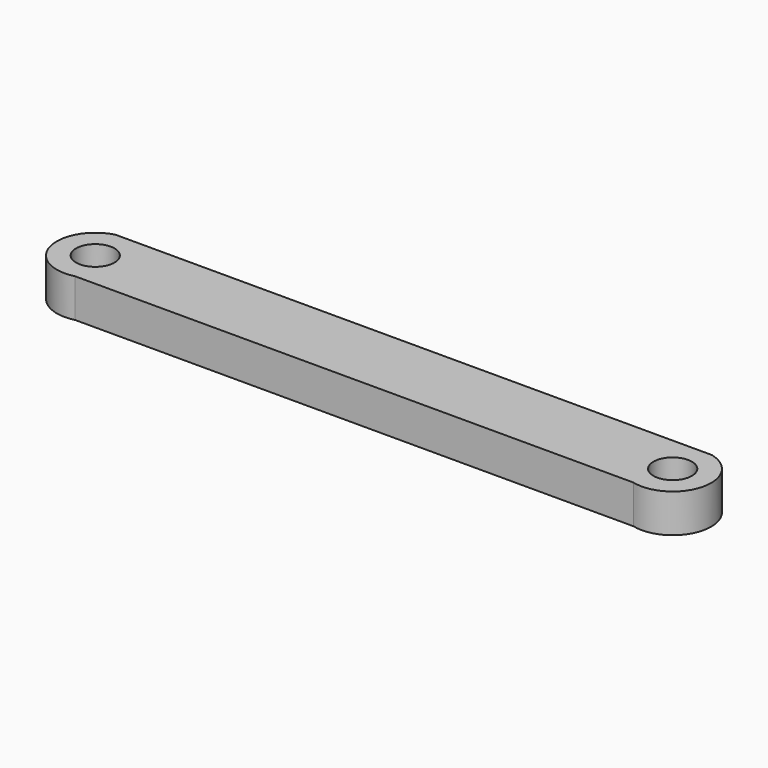
from build123d import *

# Parameters (mm, degrees)
SKETCH_R      = 10
EXTRUDE_DEPTH = 20


with BuildPart() as part:
    # Sketch → Extrude (new body)
    with BuildSketch(Plane.XY):
        with BuildLine():
            ThreePointArc((-4.938879, 19.380595), (-19.380595, -4.938879), (4.938879, -19.380595))
            Line((4.938879, -19.380595), (295.061121, -19.380595))
            ThreePointArc((295.061121, -19.380595), (319.380595, -4.938879), (304.938879, 19.380595))
            Line((-4.938879, 19.380595), (304.938879, 19.380595))
        make_face()
        Circle(SKETCH_R, mode=Mode.SUBTRACT)
        with Locations((300, 0)):
            Circle(SKETCH_R, mode=Mode.SUBTRACT)
    extrude(amount=EXTRUDE_DEPTH)


solid = part.part
